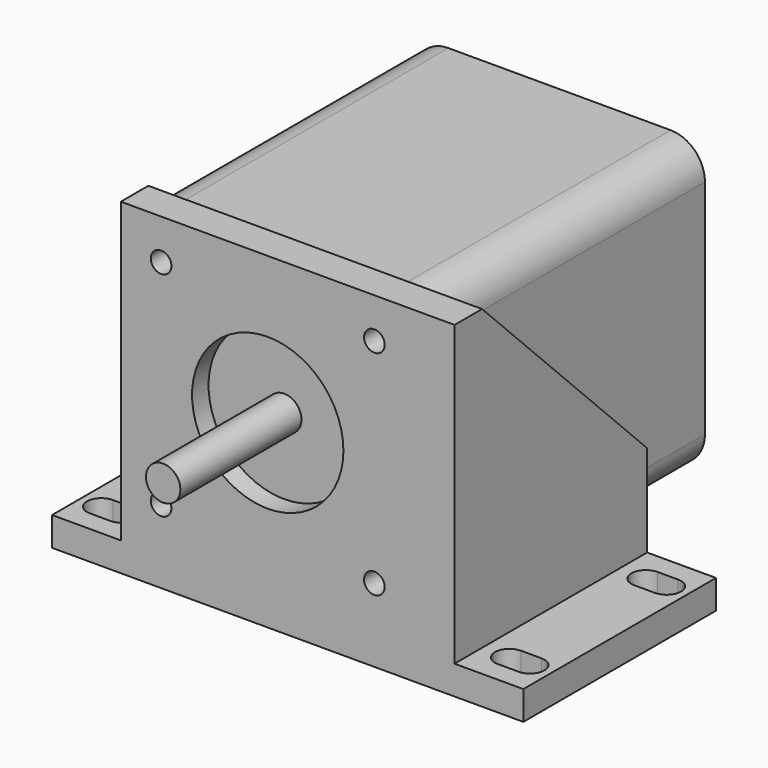
from build123d import *

# Parameters (mm, degrees)
F0_R      = 2.5
F1_DEPTH  = 24
F0_R_2    = 11
F2_DEPTH  = 2
F0_W      = 42.3
F0_H      = 42.3
F0_R_3    = 1.5
F3_DEPTH  = 48
F4_R      = 5
F5_W      = 4.2
F5_H      = 43.35
F5_W_2    = 10
F5_H_2    = 4.2
F5_W_3    = 44.3
F5_R      = 1.5
F5_R_2    = 11
F6_DEPTH  = 5
F7_DEPTH  = 30
F8_SIZE   = 30
F10_DEPTH = 47.551


with BuildPart() as f1:
    # F0 (on Front) → F1 (new body)
    with BuildSketch(Plane.XZ):
        Circle(F0_R)
    extrude(amount=F1_DEPTH)

    # F0 (on Front) → F2 (join)
    with BuildSketch(Plane.XZ):
        Circle(F0_R_2)
        Circle(F0_R, mode=Mode.SUBTRACT)
    extrude(amount=F2_DEPTH)

    # F0 (on Front) → F3 (join)
    with BuildSketch(Plane.XZ):
        Rectangle(F0_W, F0_H)
        with Locations((-15.5, -15.5)):
            Circle(F0_R_3, mode=Mode.SUBTRACT)
        with Locations((15.5, -15.5)):
            Circle(F0_R_3, mode=Mode.SUBTRACT)
        with Locations((-15.5, 15.5)):
            Circle(F0_R_3, mode=Mode.SUBTRACT)
        Circle(F0_R_2, mode=Mode.SUBTRACT)
        with Locations((15.5, 15.5)):
            Circle(F0_R_3, mode=Mode.SUBTRACT)
        Circle(F0_R_2)
        Circle(F0_R, mode=Mode.SUBTRACT)
        Circle(F0_R)
    extrude(amount=-F3_DEPTH)

    # F4
    f4_edges = [f1.edges().sort_by_distance(p)[0] for p in [
        (21.15, 24, 21.15),
        (21.15, 24, -21.15),
        (-21.15, 24, -21.15),
        (-21.15, 24, 21.15),
    ]]
    fillet(f4_edges, radius=F4_R)


with BuildPart() as f6:
    # F5 (on face) → F6 (new body)
    with BuildSketch(Plane.XZ):
        with Locations((25.05, -0.325)):
            Rectangle(F5_W, F5_H)
        Polygon((22.95, -22), (-21.35, -22), (-21.35, -26.2), (27.15, -26.2), (27.15, -22), align=None)
        with Locations((32.15, -24.1)):
            Rectangle(F5_W_2, F5_H_2)
        with Locations((-26.35, -24.1)):
            Rectangle(F5_W_2, F5_H_2)
        with Locations((0.8, -0.325)):
            Rectangle(F5_W_3, F5_H)
        with BuildLine():
            Line((21.15, 16.15), (21.15, -16.15))
            ThreePointArc((21.15, -16.15), (19.6855339059, -19.6855339059), (16.15, -21.15))
            Line((16.15, -21.15), (-16.15, -21.15))
            ThreePointArc((-16.15, -21.15), (-19.6855339059, -19.6855339059), (-21.15, -16.15))
            Line((-21.15, -16.15), (-21.15, 16.15))
            ThreePointArc((-21.15, 16.15), (-19.6855339059, 19.6855339059), (-16.15, 21.15))
            Line((-16.15, 21.15), (16.15, 21.15))
            ThreePointArc((16.15, 21.15), (19.6855339059, 19.6855339059), (21.15, 16.15))
        make_face(mode=Mode.SUBTRACT)
        with BuildLine():
            ThreePointArc((16.15, -21.15), (19.6855339059, -19.6855339059), (21.15, -16.15))
            Line((21.15, -16.15), (21.15, 16.15))
            ThreePointArc((21.15, 16.15), (19.6855339059, 19.6855339059), (16.15, 21.15))
            Line((16.15, 21.15), (-16.15, 21.15))
            ThreePointArc((-16.15, 21.15), (-19.6855339059, 19.6855339059), (-21.15, 16.15))
            Line((-21.15, 16.15), (-21.15, -16.15))
            ThreePointArc((-21.15, -16.15), (-19.6855339059, -19.6855339059), (-16.15, -21.15))
            Line((-16.15, -21.15), (16.15, -21.15))
        make_face()
        with Locations((-15.5, -15.5)):
            Circle(F5_R, mode=Mode.SUBTRACT)
        with Locations((15.5, -15.5)):
            Circle(F5_R, mode=Mode.SUBTRACT)
        Circle(F5_R_2, mode=Mode.SUBTRACT)
        with Locations((-15.5, 15.5)):
            Circle(F5_R, mode=Mode.SUBTRACT)
        with Locations((15.5, 15.5)):
            Circle(F5_R, mode=Mode.SUBTRACT)
    extrude(amount=F6_DEPTH)

    # F5 (on face) → F7 (join)
    with BuildSketch(Plane.XZ):
        Polygon((22.95, -22), (-21.35, -22), (-21.35, -26.2), (27.15, -26.2), (27.15, -22), align=None)
        with Locations((32.15, -24.1)):
            Rectangle(F5_W_2, F5_H_2)
        with Locations((25.05, -0.325)):
            Rectangle(F5_W, F5_H)
        with Locations((-26.35, -24.1)):
            Rectangle(F5_W_2, F5_H_2)
    extrude(amount=-F7_DEPTH)

    # F8
    f8_edges = [f6.edges().sort_by_distance(p)[0] for p in [
        (25.05, 30, 21.35),
    ]]
    chamfer(f8_edges, length=F8_SIZE)

    # F9 (on face) → F10 (cut, through all)
    with BuildSketch(Plane(origin=(0, 0, -26.2), x_dir=(1, 0, 0), z_dir=(0, 0, -1))):
        with BuildLine():
            ThreePointArc((31.05, -22.8), (28.95, -24.9), (31.05, -27))
            Line((31.05, -27), (34.05, -27))
            ThreePointArc((34.05, -27), (36.15, -24.9), (34.05, -22.8))
            Line((34.05, -22.8), (31.05, -22.8))
        make_face()
        with BuildLine():
            Line((34.05, 2), (31.05, 2))
            ThreePointArc((31.05, 2), (28.95, -0.1), (31.05, -2.2))
            Line((31.05, -2.2), (34.05, -2.2))
            ThreePointArc((34.05, -2.2), (36.15, -0.1), (34.05, 2))
        make_face()
        with BuildLine():
            Line((-28.25, -27), (-25.25, -27))
            ThreePointArc((-25.25, -27), (-23.15, -24.9), (-25.25, -22.8))
            Line((-25.25, -22.8), (-28.25, -22.8))
            ThreePointArc((-28.25, -22.8), (-30.35, -24.9), (-28.25, -27))
        make_face()
        with BuildLine():
            ThreePointArc((-28.25, 2), (-30.35, -0.1), (-28.25, -2.2))
            Line((-28.25, -2.2), (-25.25, -2.2))
            ThreePointArc((-25.25, -2.2), (-23.15, -0.1), (-25.25, 2))
            Line((-25.25, 2), (-28.25, 2))
        make_face()
    extrude(amount=-F10_DEPTH, mode=Mode.SUBTRACT)


solid = Compound([f1.part, f6.part])
